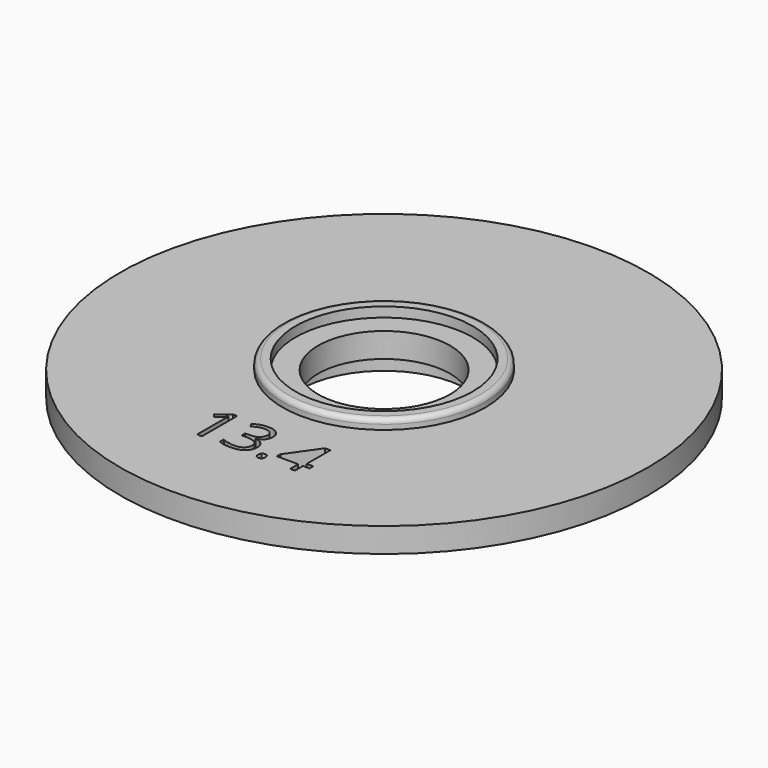
from build123d import *

# Parameters (mm, degrees)
F3_R     = 26.8
F3_R_2   = 6.7
F4_DEPTH = 2.5
F5_R     = 10.3
F5_R_2   = 9
F6_DEPTH = 1
F7_R     = 0.5
F9_DEPTH = 2


with BuildPart() as f4:
    # F3 (on Top) → F4 (new body)
    with BuildSketch(Plane.XY):
        Circle(F3_R)
        with BuildLine():
            Line((-4.1619996915, -13.4381969615), (-4.1619996915, -17.9131179147))
            Line((-4.1619996915, -17.9131179147), (-4.657580782, -17.9131179147))
            Line((-4.657580782, -17.9131179147), (-4.657580782, -14.7241613326))
            add(Edge.make_bspline(
                [(-4.657580782, -14.7241613326), (-4.657580782, -14.3255417599), (-4.6330955502, -13.9709956042)],
                knots=[0, 0, 0, 1, 1, 1], degree=2))
            add(Edge.make_bspline(
                [(-4.6330955502, -13.9709956042), (-4.6967571528, -14.035636616), (-4.7765790083, -14.1056643788)],
                knots=[0, 0, 0, 1, 1, 1], degree=2))
            add(Edge.make_bspline(
                [(-4.7765790083, -14.1056643788), (-4.8564008637, -14.1756921416), (-5.5047698003, -14.7026143287)],
                knots=[0, 0, 0, 1, 1, 1], degree=2))
            Line((-5.5047698003, -14.7026143287), (-5.7741073494, -14.3539446287))
            Line((-5.7741073494, -14.3539446287), (-4.5900015424, -13.4381969615))
            Line((-4.5900015424, -13.4381969615), (-4.1619996915, -13.4381969615))
        make_face(mode=Mode.SUBTRACT)
        with BuildLine():
            add(Edge.make_bspline(
                [(-0.0484807588, -13.6727654816), (0.3129212617, -13.9709956042), (0.3129212617, -14.4910619264)],
                knots=[0, 0, 0, 1, 1, 1], degree=2))
            add(Edge.make_bspline(
                [(0.3129212617, -14.4910619264), (0.3129212617, -14.9200431866), (0.072476286, -15.1923189635)],
                knots=[0, 0, 0, 1, 1, 1], degree=2))
            add(Edge.make_bspline(
                [(0.072476286, -15.1923189635), (-0.1679686898, -15.4645947405), (-0.6087028611, -15.5566592118)],
                knots=[0, 0, 0, 1, 1, 1], degree=2))
            Line((-0.6087028611, -15.5566592118), (-0.6087028611, -15.5811444436))
            add(Edge.make_bspline(
                [(-0.6087028611, -15.5811444436), (-0.0700277628, -15.6477442739), (0.1900053983, -15.9234479833)],
                knots=[0, 0, 0, 1, 1, 1], degree=2))
            add(Edge.make_bspline(
                [(0.1900053983, -15.9234479833), (0.4500385594, -16.1991516928), (0.4500385594, -16.6457623197)],
                knots=[0, 0, 0, 1, 1, 1], degree=2))
            add(Edge.make_bspline(
                [(0.4500385594, -16.6457623197), (0.4500385594, -17.2853165728), (0.0063661603, -17.6300686358)],
                knots=[0, 0, 0, 1, 1, 1], degree=2))
            add(Edge.make_bspline(
                [(0.0063661603, -17.6300686358), (-0.4373062389, -17.9748206987), (-1.2541335698, -17.9748206987)],
                knots=[0, 0, 0, 1, 1, 1], degree=2))
            add(Edge.make_bspline(
                [(-1.2541335698, -17.9748206987), (-1.6096591347, -17.9748206987), (-1.9049510295, -17.9209531889)],
                knots=[0, 0, 0, 1, 1, 1], degree=2))
            add(Edge.make_bspline(
                [(-1.9049510295, -17.9209531889), (-2.2002429243, -17.867085679), (-2.4783951569, -17.7329066091)],
                knots=[0, 0, 0, 1, 1, 1], degree=2))
            Line((-2.4783951569, -17.7329066091), (-2.4783951569, -17.2490784299))
            add(Edge.make_bspline(
                [(-2.4783951569, -17.2490784299), (-2.1875106038, -17.3930515925), (-1.8584290892, -17.4679764016)],
                knots=[0, 0, 0, 1, 1, 1], degree=2))
            add(Edge.make_bspline(
                [(-1.8584290892, -17.4679764016), (-1.5293475746, -17.5429012108), (-1.2355247937, -17.5429012108)],
                knots=[0, 0, 0, 1, 1, 1], degree=2))
            add(Edge.make_bspline(
                [(-1.2355247937, -17.5429012108), (-0.0759042184, -17.5429012108), (-0.0759042184, -16.6340094085)],
                knots=[0, 0, 0, 1, 1, 1], degree=2))
            add(Edge.make_bspline(
                [(-0.0759042184, -16.6340094085), (-0.0759042184, -15.8191408961), (-1.3550127246, -15.8191408961)],
                knots=[0, 0, 0, 1, 1, 1], degree=2))
            Line((-1.3550127246, -15.8191408961), (-1.795746896, -15.8191408961))
            Line((-1.795746896, -15.8191408961), (-1.795746896, -15.3823243618))
            Line((-1.795746896, -15.3823243618), (-1.349136269, -15.3823243618))
            add(Edge.make_bspline(
                [(-1.349136269, -15.3823243618), (-0.826131719, -15.3823243618), (-0.5200663222, -15.1511837742)],
                knots=[0, 0, 0, 1, 1, 1], degree=2))
            add(Edge.make_bspline(
                [(-0.5200663222, -15.1511837742), (-0.2140009254, -14.9200431866), (-0.2140009254, -14.5096707026)],
                knots=[0, 0, 0, 1, 1, 1], degree=2))
            add(Edge.make_bspline(
                [(-0.2140009254, -14.5096707026), (-0.2140009254, -14.1825480065), (-0.4387753528, -13.995480836)],
                knots=[0, 0, 0, 1, 1, 1], degree=2))
            add(Edge.make_bspline(
                [(-0.4387753528, -13.995480836), (-0.6635497802, -13.8084136655), (-1.0494370325, -13.8084136655)],
                knots=[0, 0, 0, 1, 1, 1], degree=2))
            add(Edge.make_bspline(
                [(-1.0494370325, -13.8084136655), (-1.3432598134, -13.8084136655), (-1.6032929745, -13.8882355209)],
                knots=[0, 0, 0, 1, 1, 1], degree=2))
            add(Edge.make_bspline(
                [(-1.6032929745, -13.8882355209), (-1.8633261356, -13.9680573764), (-2.1973046965, -14.1825480065)],
                knots=[0, 0, 0, 1, 1, 1], degree=2))
            Line((-2.1973046965, -14.1825480065), (-2.4539099252, -13.8397547621))
            add(Edge.make_bspline(
                [(-2.4539099252, -13.8397547621), (-2.1786959204, -13.6223259042), (-1.8192527184, -13.4984306316)],
                knots=[0, 0, 0, 1, 1, 1], degree=2))
            add(Edge.make_bspline(
                [(-1.8192527184, -13.4984306316), (-1.4598095165, -13.374535359), (-1.0611899437, -13.374535359)],
                knots=[0, 0, 0, 1, 1, 1], degree=2))
            add(Edge.make_bspline(
                [(-1.0611899437, -13.374535359), (-0.4098827794, -13.374535359), (-0.0484807588, -13.6727654816)],
                knots=[0, 0, 0, 1, 1, 1], degree=2))
        make_face(mode=Mode.SUBTRACT)
        Circle(F3_R_2, mode=Mode.SUBTRACT)
        with BuildLine():
            add(Edge.make_bspline(
                [(1.3848847073, -17.9057723452), (1.2825364387, -17.8093005321), (1.2825364387, -17.5889334464)],
                knots=[0, 0, 0, 1, 1, 1], degree=2))
            add(Edge.make_bspline(
                [(1.2825364387, -17.5889334464), (1.2825364387, -17.3832574998), (1.3760700239, -17.2779710033)],
                knots=[0, 0, 0, 1, 1, 1], degree=2))
            add(Edge.make_bspline(
                [(1.3760700239, -17.2779710033), (1.4696036092, -17.1726845068), (1.6439384592, -17.1726845068)],
                knots=[0, 0, 0, 1, 1, 1], degree=2))
            add(Edge.make_bspline(
                [(1.6439384592, -17.1726845068), (1.821211537, -17.1726845068), (1.9206215779, -17.2779710033)],
                knots=[0, 0, 0, 1, 1, 1], degree=2))
            add(Edge.make_bspline(
                [(1.9206215779, -17.2779710033), (2.0200316187, -17.3832574998), (2.0200316187, -17.5889334464)],
                knots=[0, 0, 0, 1, 1, 1], degree=2))
            add(Edge.make_bspline(
                [(2.0200316187, -17.5889334464), (2.0200316187, -17.7877535282), (1.9191524639, -17.8949988432)],
                knots=[0, 0, 0, 1, 1, 1], degree=2))
            add(Edge.make_bspline(
                [(1.9191524639, -17.8949988432), (1.8182733092, -18.0022441582), (1.6439384592, -18.0022441582)],
                knots=[0, 0, 0, 1, 1, 1], degree=2))
            add(Edge.make_bspline(
                [(1.6439384592, -18.0022441582), (1.487232976, -18.0022441582), (1.3848847073, -17.9057723452)],
                knots=[0, 0, 0, 1, 1, 1], degree=2))
        make_face(mode=Mode.SUBTRACT)
        Polygon((5.9435451531, -16.4224570062), (5.9435451531, -16.8847381815), (5.2795056682, -16.8847381815), (5.2795056682, -17.9131179147), (4.7927392612, -17.9131179147), (4.7927392612, -16.8847381815), (2.616491864, -16.8847381815), (2.616491864, -16.4410657824), (4.7408305699, -13.4137117298), (5.2795056682, -13.4137117298), (5.2795056682, -16.4224570062), align=None, mode=Mode.SUBTRACT)
    extrude(amount=F4_DEPTH)

    # F5 (on face) → F6 (join)
    with BuildSketch(Plane.XY.offset(2.5)):
        Circle(F5_R)
        Circle(F5_R_2, mode=Mode.SUBTRACT)
    extrude(amount=F6_DEPTH)

    # F7
    f7_edges = [f4.edges().sort_by_distance(p)[0] for p in [
        (-10.3, 0, 3.5),
    ]]
    fillet(f7_edges, radius=F7_R)

    # F8 (on face) → F9 (join)
    with BuildSketch(Plane(origin=(0, 0, 0), x_dir=(1, 0, 0), z_dir=(0, 0, -1))):
        with BuildLine():
            Line((-5.2854986866, 10.6844577384), (-8.5731837258, 4.7476858367))
            ThreePointArc((-8.5731837258, 4.7476858367), (0, -9.8), (8.5731837258, 4.7476858367))
            Line((8.5731837258, 4.7476858367), (5.2854986866, 10.6844577384))
            ThreePointArc((5.2854986866, 10.6844577384), (4.9183956817, 11.0615270566), (4.4106840207, 11.2))
            Line((4.4106840207, 11.2), (-4.4106840207, 11.2))
            ThreePointArc((-4.4106840207, 11.2), (-4.9183956817, 11.0615270566), (-5.2854986866, 10.6844577384))
        make_face()
        with BuildLine():
            ThreePointArc((7.4359246601, 4.1178907767), (0, -8.5), (-7.4359246601, 4.1178907767))
            Line((-7.4359246601, 4.1178907767), (-4.3766385702, 9.6422288692))
            ThreePointArc((-4.3766385702, 9.6422288692), (-4.1930870677, 9.8307635283), (-3.9392312372, 9.9))
            Line((-3.9392312372, 9.9), (3.9392312372, 9.9))
            ThreePointArc((3.9392312372, 9.9), (4.1930870677, 9.8307635283), (4.3766385702, 9.6422288692))
            Line((4.3766385702, 9.6422288692), (7.4359246601, 4.1178907767))
        make_face(mode=Mode.SUBTRACT)
    extrude(amount=F9_DEPTH)


solid = f4.part
